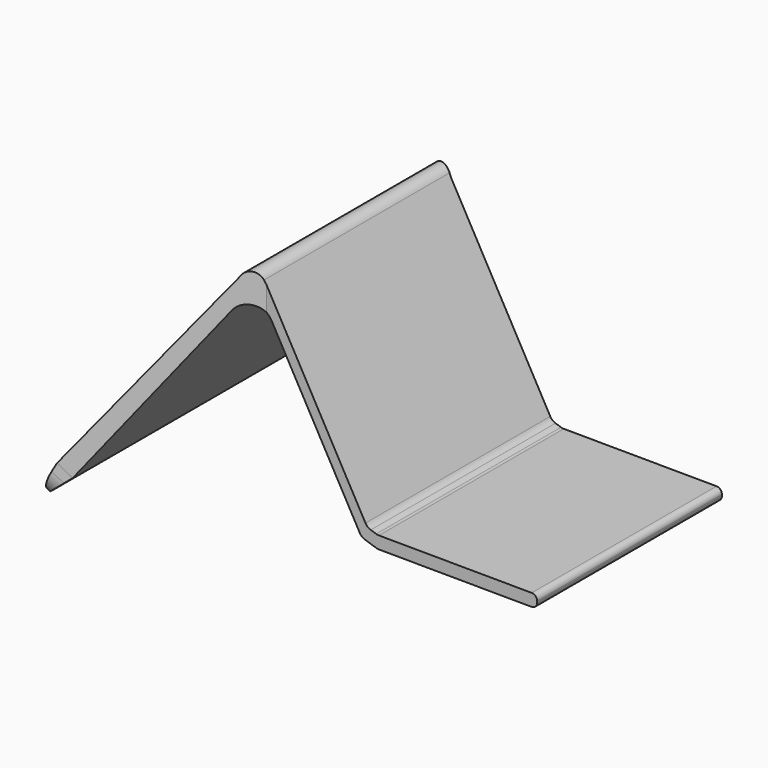
from build123d import *

# Parameters (mm, degrees)
F1_DEPTH  = 30
F2_R      = 1.9372626165
F3_R      = 3.6323674058
F4_R      = 1.6835956322
F5_W      = 6.1
F5_H      = 18
F6_DEPTH  = 5.5
F7_R      = 2.53
F8_R      = 1
F9_DEPTH  = 12.5
F10_W     = 11.5
F10_H     = 5.4466048917
F11_DEPTH = 30.5
F12_R     = 1
F16_DEPTH = 51.6
F18_DEPTH = 7.6
F18_TAPER = -11.0007896665
F19_R     = 5
F21_DEPTH = 65.9


with BuildPart() as f1:
    # F0 (on Front) → F1 (new body, symmetric)
    with BuildSketch(Plane.XZ):
        Polygon((-21.4841543387, 38.441415643), (-50.5517522, 0.2476171236), (-48.2417419553, -1.6707489267), (-21.4177053502, 34.551171923), (-2.3782219554, 0.4027119112), (0.5371333221, -0.539442296), (29.5366433894, -0.7080123418), (29.5496972348, 1.5376720665), (0.5325847111, 1.706344433), (-1.3398946671, 2.3114728499), align=None)
    extrude(amount=F1_DEPTH, both=True)

    # F2
    f2_edges = [f1.edges().sort_by_distance(p)[0] for p in [
        (-21.484154, 0, 38.441416),
    ]]
    fillet(f2_edges, radius=F2_R)

    # F3
    f3_edges = [f1.edges().sort_by_distance(p)[0] for p in [
        (-21.417705, 0, 34.551172),
    ]]
    fillet(f3_edges, radius=F3_R)

    # F4
    f4_edges = [f1.edges().sort_by_distance(p)[0] for p in [
        (-2.378222, 0, 0.402712),
        (0.537133, 0, -0.539442),
        (-1.339895, 0, 2.311473),
        (0.532585, 0, 1.706344),
    ]]
    fillet(f4_edges, radius=F4_R)

    # F5 (on face) → F6 (join)
    with BuildSketch(Plane(origin=(-0.003117447, 0, -0.5363018947), x_dir=(0.9999831058, 0, -0.0058127602), z_dir=(-0.0058127602, 0, -0.9999831058))):
        with Locations((19.224634394, 0)):
            Rectangle(F5_W, F5_H)
    extrude(amount=F6_DEPTH)

    # F7
    f7_edges = [f1.edges().sort_by_distance(p)[0] for p in [
        (16.139274, 0, -6.130228),
        (22.23917, 0, -6.165686),
    ]]
    fillet(f7_edges, radius=F7_R)

    # F8 (on Front) → F9 (cut, symmetric)
    with BuildSketch(Plane.XZ):
        with Locations((19.1846575089, -4.1679624274)):
            Circle(F8_R)
    extrude(amount=F9_DEPTH, both=True, mode=Mode.SUBTRACT)

    # F10 (on Right) → F11 (cut)
    with BuildSketch(Plane.YZ):
        with Locations((0, -3.4415810369)):
            Rectangle(F10_W, F10_H)
    extrude(amount=F11_DEPTH, mode=Mode.SUBTRACT)

    # F12
    f12_edges = [f1.edges().sort_by_distance(p)[0] for p in [
        (29.549697, 0, 1.537672),
        (29.536643, 0, -0.708012),
    ]]
    fillet(f12_edges, radius=F12_R)

    # F15 (on Top) → F16 (cut, symmetric)
    with BuildSketch(Plane.XY):
        Polygon((36.6469656572, -30.0679765642), (36.1767635131, -20.9998395294), (-19.7048801929, -20.9998395294), (-50.7905334234, -30.0679765642), align=None)
        Polygon((-19.7048801929, 20.9998395294), (36.1767635131, 20.9998395294), (36.6469656572, 30.0679765642), (-50.7905334234, 30.0679765642), align=None)
    extrude(amount=F16_DEPTH, both=True, mode=Mode.SUBTRACT)


with BuildPart() as f18:
    # F17 (on face) → F18 (new body)
    with BuildSketch(Plane(origin=(-20.5117545018, 0, -24.6993335959), x_dir=(0.7693081193, 0, -0.6388779364), z_dir=(-0.6388779364, 0, -0.7693081193))):
        Polygon((-39.0480705273, -29.9983206094), (-36.0453591469, -29.3244570333), (-36.0453591469, 29.3244570333), (-39.0480705273, 29.9983206094), align=None)
    extrude(amount=F18_DEPTH, taper=F18_TAPER)

    # F19
    f19_edges = [f18.edges().sort_by_distance(p)[0] for p in [
        (-54.252219, 31.175534, -6.558308),
        (-54.252219, -31.175534, -6.558308),
    ]]
    fillet(f19_edges, radius=F19_R)

    # F20 (on offset) → F21 (cut, symmetric)
    with BuildSketch(Plane.XZ.offset(-21)):
        Polygon((-54.112419486, -6.658335682), (-50.3190383315, 0.7145153941), (-53.9081059396, 1.3606360881), (-57.6216615736, -5.0401142798), (-52.1909035742, -10.3187263012), (-44.9881106615, -4.8535033129), (-47.8707328439, -1.363902702), align=None)
    extrude(amount=F21_DEPTH, both=True, mode=Mode.SUBTRACT)


solid = Compound([f1.part, f18.part])
